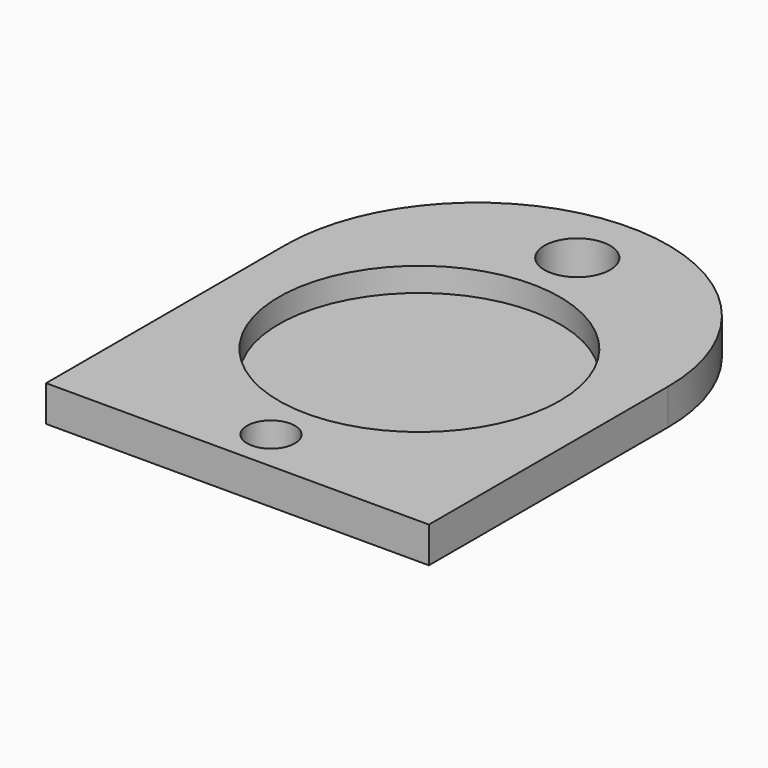
from build123d import *

# Parameters (mm, degrees)
F0_R     = 2
F0_R_2   = 2.75
F1_DEPTH = 3
F2_R     = 11.75
F3_DEPTH = 2


with BuildPart() as f1:
    # F0 (on Top) → F1 (new body)
    with BuildSketch(Plane.XY):
        with BuildLine():
            Line((0, 25), (0, 0))
            Line((0, 0), (32, 0))
            Line((32, 0), (32, 25))
            ThreePointArc((32, 25), (16, 41), (0, 25))
        make_face()
        with Locations((16, 3.5)):
            Circle(F0_R, mode=Mode.SUBTRACT)
        with Locations((16, 35.5)):
            Circle(F0_R_2, mode=Mode.SUBTRACT)
    extrude(amount=F1_DEPTH)

    # F2 (on face) → F3 (cut)
    with BuildSketch(Plane.XY.offset(3)):
        with Locations((16, 19)):
            Circle(F2_R)
    extrude(amount=-F3_DEPTH, mode=Mode.SUBTRACT)


solid = f1.part
